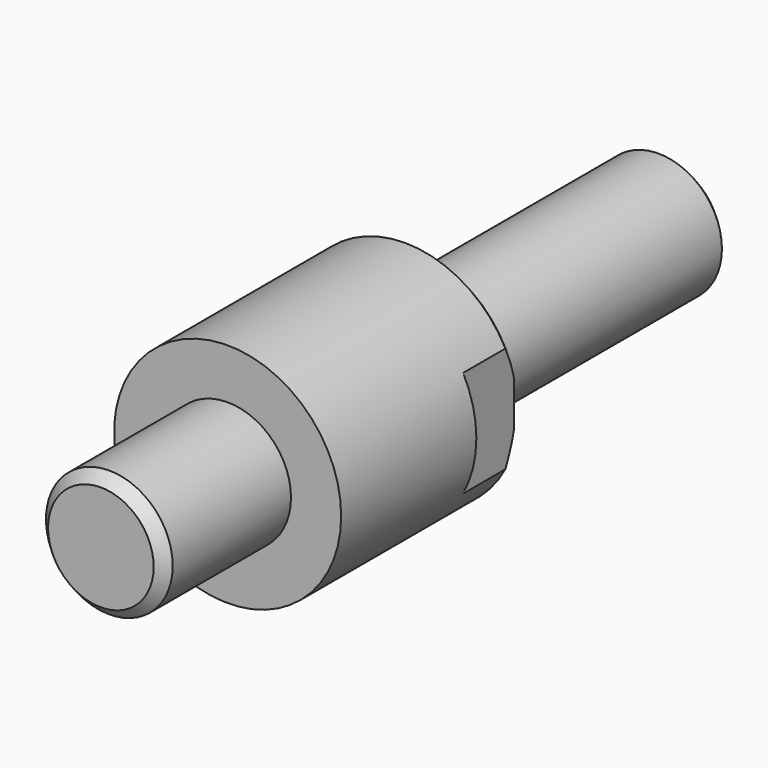
from build123d import *

# Parameters (mm, degrees)
F0_R     = 6
F1_DEPTH = 67
F3_R     = 10.75
F4_DEPTH = 22
F5_W     = 26.495327
F5_H     = 31.794394
F5_W_2   = 19
F5_H_2   = 24.700004
F6_DEPTH = 6
F7_SIZE  = 1


with BuildPart() as f1:
    # F0 (on Front) → F1 (new body)
    with BuildSketch(Plane.XZ):
        Circle(F0_R)
    extrude(amount=F1_DEPTH)

    # F3 (on offset) → F4 (join)
    with BuildSketch(Plane.XZ.offset(52)):
        Circle(F3_R)
    extrude(amount=-F4_DEPTH)

    # F5 (on face) → F6 (cut)
    with BuildSketch(Plane(origin=(0, -30, 0), x_dir=(-1, 0, 0), z_dir=(0, 1, 0))):
        with Locations((-0.883178, -0.441589)):
            Rectangle(F5_W, F5_H)
        with Locations((2e-06, -0.147196)):
            Rectangle(F5_W_2, F5_H_2, mode=Mode.SUBTRACT)
    extrude(amount=-F6_DEPTH, mode=Mode.SUBTRACT)

    # F7
    f7_edges = [f1.edges().sort_by_distance(p)[0] for p in [
        (-6, -67, 0),
        (-6, 0, 0),
        (-4e-06, -30, -10.75),
        (-4e-06, -30, 10.75),
    ]]
    chamfer(f7_edges, length=F7_SIZE)


solid = f1.part
